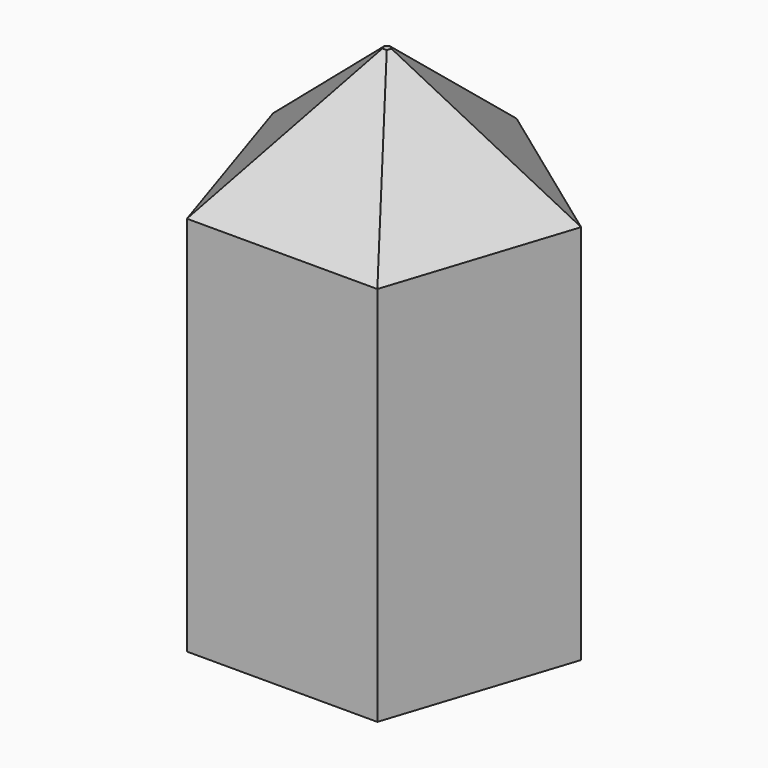
from build123d import *

# Parameters (mm, degrees)
F1_DEPTH = 131.318
F2_SIZE  = 33.02


with BuildPart() as f1:
    # F0 (on Top) → F1 (new body)
    with BuildSketch(Plane.XY):
        Polygon((-24.559464, -33.803202), (24.559464, -33.803202), (39.738047, 12.911674), (0, 41.783056), (-39.738047, 12.911674), align=None)
    extrude(amount=F1_DEPTH)

    # F2
    f2_edges = [f1.edges().sort_by_distance(p)[0] for p in [
        (0, -33.803202, 131.318),
        (-32.148756, -10.445764, 131.318),
        (-19.869024, 27.347365, 131.318),
        (19.869024, 27.347365, 131.318),
        (32.148756, -10.445764, 131.318),
    ]]
    chamfer(f2_edges, length=F2_SIZE)


solid = f1.part
